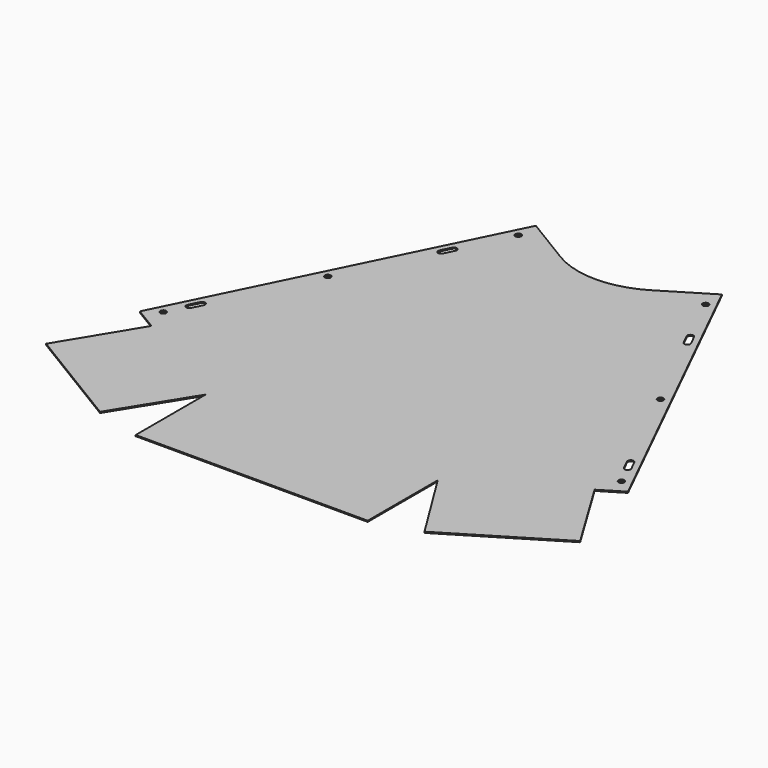
from build123d import *

# Parameters (mm, degrees)
F0_R     = 4.318
F1_DEPTH = 1.6256


with BuildPart() as f1:
    # F0 (on Top) → F1 (new body)
    with BuildSketch(Plane.XY):
        with BuildLine():
            Line((-64.365432, -42.826228), (-134.9375, 0))
            Line((-134.9375, 0), (-147.295577, -25.058363))
            Line((-147.295577, -25.058363), (-354.0125, -444.216427))
            Line((-354.0125, -444.216427), (-321.440777, -463.982379))
            Line((-321.440777, -463.982379), (-387.327281, -572.55479))
            Line((-387.327281, -572.55479), (-235.325904, -664.795896))
            Line((-235.325904, -664.795896), (-168.275, -556.938693))
            Line((-168.275, -556.938693), (-168.275, -683.938693))
            Line((-168.275, -683.938693), (0, -683.938693))
            Line((0, -683.938693), (0, -416.218132))
            Line((0, -416.218132), (0, -60.325))
            ThreePointArc((0, -60.325), (-33.350847, -55.872328), (-64.365432, -42.826228))
        make_face()
        with Locations((-332.275254, -428.853052)):
            Circle(F0_R, mode=Mode.SUBTRACT)
        with BuildLine():
            ThreePointArc((-314.022291, -401.604114), (-319.804831, -403.566886), (-321.767603, -397.784345))
            Line((-321.767603, -397.784345), (-314.656091, -383.364396))
            ThreePointArc((-314.656091, -383.364396), (-308.873551, -381.401625), (-306.910779, -387.184166))
            Line((-306.910779, -387.184166), (-314.022291, -401.604114))
        make_face(mode=Mode.SUBTRACT)
        with Locations((-241.241166, -244.264041)):
            Circle(F0_R, mode=Mode.SUBTRACT)
        with BuildLine():
            ThreePointArc((-175.36933, -100.93387), (-169.586789, -98.971098), (-167.624018, -104.753639))
            Line((-167.624018, -104.753639), (-174.735529, -119.173588))
            ThreePointArc((-174.735529, -119.173588), (-180.51807, -121.136359), (-182.480841, -115.353818))
            Line((-182.480841, -115.353818), (-175.36933, -100.93387))
        make_face(mode=Mode.SUBTRACT)
        with BuildLine():
            ThreePointArc((-131.587412, -30.67567), (-136.885972, -34.880861), (-139.778068, -28.765786))
            ThreePointArc((-139.778068, -28.765786), (-134.924852, -26.47048), (-131.587412, -30.67567))
        make_face(mode=Mode.SUBTRACT)
        with BuildLine():
            Line((147.295577, -25.058363), (134.9375, 0))
            Line((134.9375, 0), (64.365432, -42.826228))
            ThreePointArc((64.365432, -42.826228), (33.350847, -55.872328), (0, -60.325))
            Line((0, -60.325), (0, -416.218132))
            Line((0, -416.218132), (0, -683.938693))
            Line((0, -683.938693), (168.275, -683.938693))
            Line((168.275, -683.938693), (168.275, -556.938693))
            Line((168.275, -556.938693), (235.325904, -664.795896))
            Line((235.325904, -664.795896), (387.327281, -572.55479))
            Line((387.327281, -572.55479), (321.440777, -463.982379))
            Line((321.440777, -463.982379), (354.0125, -444.216427))
            Line((354.0125, -444.216427), (147.295577, -25.058363))
        make_face()
        with Locations((332.275254, -428.853052)):
            Circle(F0_R, mode=Mode.SUBTRACT)
        with BuildLine():
            Line((314.656091, -383.364396), (321.767603, -397.784345))
            ThreePointArc((321.767603, -397.784345), (319.804831, -403.566886), (314.022291, -401.604114))
            Line((314.022291, -401.604114), (306.910779, -387.184166))
            ThreePointArc((306.910779, -387.184166), (308.873551, -381.401625), (314.656091, -383.364396))
        make_face(mode=Mode.SUBTRACT)
        with Locations((241.241166, -244.264041)):
            Circle(F0_R, mode=Mode.SUBTRACT)
        with BuildLine():
            ThreePointArc((182.480841, -115.353818), (180.51807, -121.136359), (174.735529, -119.173588))
            Line((174.735529, -119.173588), (167.624018, -104.753639))
            ThreePointArc((167.624018, -104.753639), (169.586789, -98.971098), (175.36933, -100.93387))
            Line((175.36933, -100.93387), (182.480841, -115.353818))
        make_face(mode=Mode.SUBTRACT)
        with BuildLine():
            ThreePointArc((140.223412, -30.67567), (131.700222, -31.65623), (139.778068, -28.765786))
            ThreePointArc((139.778068, -28.765786), (140.110603, -29.69511), (140.223412, -30.67567))
        make_face(mode=Mode.SUBTRACT)
    extrude(amount=F1_DEPTH)


solid = f1.part
